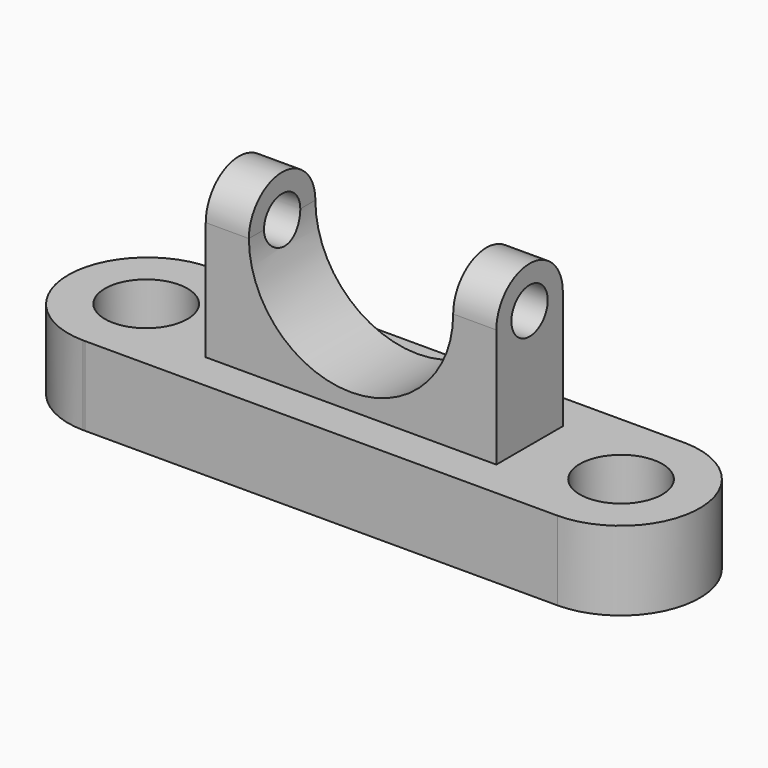
from build123d import *

# Parameters (mm, degrees)
F1_DEPTH  = 25.4
F2_R      = 13.276000262
F2_R_2    = 13.2682995005
F3_DEPTH  = 25.401
F4_W      = 93.4033617377
F4_H      = 26.7108418047
F5_DEPTH  = 38.1
F7_DEPTH  = 38.7764468004
F8_W      = 13.8678809612
F8_H      = 13.3554209024
F10_W     = 13.8678809612
F10_H     = 13.3554209024
F12_R     = 7.2961066279
F13_DEPTH = 148.2995960076


with BuildPart() as f1:
    # F0 (on Top) → F1 (new body)
    with BuildSketch(Plane.XY):
        with BuildLine():
            ThreePointArc((-76.1768892407, 25.420025898), (-58.2022165503, 17.9746726904), (-50.7568633427, 0))
            ThreePointArc((-50.7568633427, 0), (-58.0842609925, -17.8559379403), (-75.8421658524, -25.4178220332))
            Line((-75.8421658524, -25.4178220332), (75.9601819019, -25.4294734106))
            ThreePointArc((75.9601819019, -25.4294734106), (50.5350089445, -0.3456126871), (75.2690210938, 25.420025898))
            Line((75.2690210938, 25.420025898), (-76.1768892407, 25.420025898))
        make_face()
        with BuildLine():
            ThreePointArc((-75.8421658524, -25.4178220332), (-58.0842609925, -17.8559379403), (-50.7568633427, 0))
            ThreePointArc((-50.7568633427, 0), (-58.2022165503, 17.9746726904), (-76.1768892407, 25.420025898))
            ThreePointArc((-76.1768892407, 25.420025898), (-101.5963512458, 0.1693163576), (-76.5155144441, -25.4177703512))
            Line((-76.5155144441, -25.4177703512), (-75.8421658524, -25.4178220332))
        make_face()
        with BuildLine():
            Line((76.6552463174, 25.420025898), (75.2690210938, 25.420025898))
            ThreePointArc((75.2690210938, 25.420025898), (50.5350089445, -0.3456126871), (75.9601819019, -25.4294734106))
            ThreePointArc((75.9601819019, -25.4294734106), (93.9427967691, -17.9820431972), (101.3916071911, 0))
            ThreePointArc((101.3916071911, 0), (94.186891736, 17.7346078751), (76.6552463174, 25.420025898))
        make_face()
    extrude(amount=-F1_DEPTH)

    # F2 (on face) → F3 (cut, through all)
    with BuildSketch(Plane.XY):
        with Locations((-76.5155144441, 0)):
            Circle(F2_R)
        with Locations((76.1081134062, 0)):
            Circle(F2_R_2)
    extrude(amount=-F3_DEPTH, mode=Mode.SUBTRACT)

    # F4 (on face) → F5 (join)
    with BuildSketch(Plane.XY):
        Rectangle(F4_W, F4_H)
    extrude(amount=F5_DEPTH)

    # F6 (on face) → F7 (cut, through all)
    with BuildSketch(Plane.XZ.offset(13.3554209024)):
        with BuildLine():
            ThreePointArc((-32.8337999076, 38.1), (0, 5.2662000924), (32.8337999076, 38.1))
            Line((32.8337999076, 38.1), (-32.8337999076, 38.1))
        make_face()
        with BuildLine():
            Line((-32.8337999076, 38.1), (32.8337999076, 38.1))
            ThreePointArc((32.8337999076, 38.1), (0, 70.9337999076), (-32.8337999076, 38.1))
        make_face()
    extrude(amount=-F7_DEPTH, mode=Mode.SUBTRACT)

    # F8 (on face) → F9 (revolve)
    with BuildSketch(Plane.XY.offset(38.1)):
        with Locations((39.7677403882, 6.6777104512)):
            Rectangle(F8_W, F8_H)
    revolve(axis=Axis((39.7677403882, 0, 38.1), (-1, 0, 0)))

    # F10 (on face) → F11 (revolve)
    with BuildSketch(Plane.XY.offset(38.1)):
        with Locations((-39.7677403882, 6.6777104512)):
            Rectangle(F10_W, F10_H)
    revolve(axis=Axis((-39.7677403882, 0, 38.1), (-1, 0, 0)))

    # F12 (on face) → F13 (cut, through all)
    with BuildSketch(Plane.YZ.offset(46.7016808689)):
        with Locations((0, 38.1)):
            Circle(F12_R)
    extrude(amount=-F13_DEPTH, mode=Mode.SUBTRACT)


solid = f1.part
